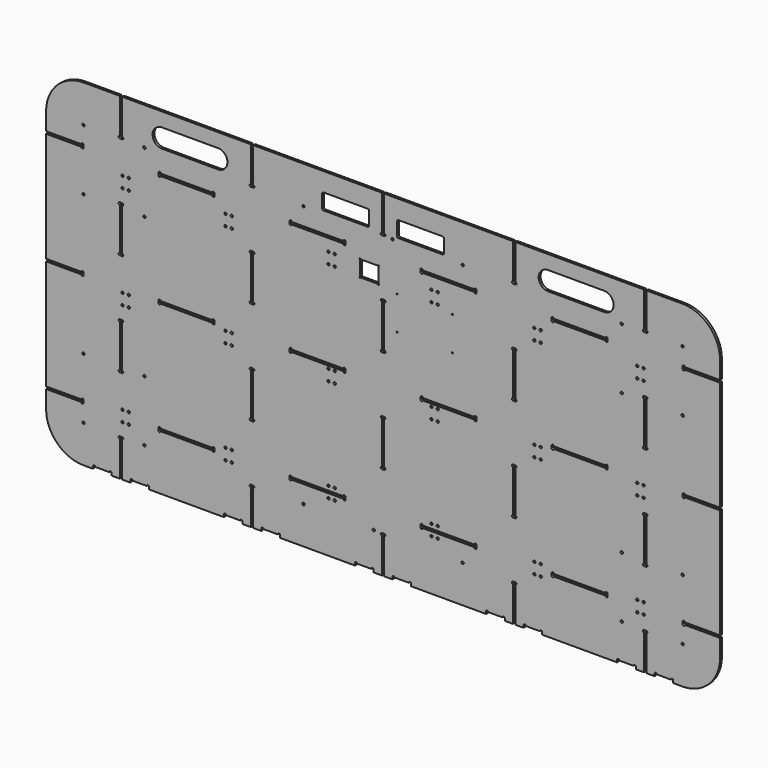
from build123d import *

# Parameters (mm, degrees)
F1_DEPTH  = 6.35
F3_DEPTH  = 6.351
F5_DEPTH  = 6.351
F7_DEPTH  = 6.351
F8_R      = 3.302
F9_DEPTH  = 6.351
F11_DEPTH = 6.351
F13_DEPTH = 6.351
F14_R     = 1.63195
F15_DEPTH = 6.351
F16_R     = 3.175
F17_DEPTH = 6.351
F18_R     = 3.175
F19_DEPTH = 6.351
F21_DEPTH = 6.351


with BuildPart() as f1:
    # F0 (on Front) → F1 (new body)
    with BuildSketch(Plane.XZ):
        with BuildLine():
            ThreePointArc((-914.4, 101.6), (-884.642049, 29.757951), (-812.8, 0))
            Line((-812.8, 0), (812.8, 0))
            ThreePointArc((812.8, 0), (884.642049, 29.757951), (914.4, 101.6))
            Line((914.4, 101.6), (914.4, 812.8))
            ThreePointArc((914.4, 812.8), (884.642049, 884.642049), (812.8, 914.4))
            Line((812.8, 914.4), (-812.8, 914.4))
            ThreePointArc((-812.8, 914.4), (-884.642049, 884.642049), (-914.4, 812.8))
            Line((-914.4, 812.8), (-914.4, 101.6))
        make_face()
    extrude(amount=F1_DEPTH)

    # F2 (on face) → F3 (cut, through all)
    with BuildSketch(Plane.XZ.offset(6.35)):
        with BuildLine():
            ThreePointArc((-714.375, 939.8), (-717.55, 936.625), (-714.375, 933.45))
            Line((-714.375, 933.45), (-714.375, 819.15))
            ThreePointArc((-714.375, 819.15), (-717.55, 815.975), (-714.375, 812.8))
            Line((-714.375, 812.8), (-708.025, 812.8))
            ThreePointArc((-708.025, 812.8), (-704.85, 815.975), (-708.025, 819.15))
            Line((-708.025, 819.15), (-708.025, 933.45))
            ThreePointArc((-708.025, 933.45), (-704.85, 936.625), (-708.025, 939.8))
            Line((-708.025, 939.8), (-714.375, 939.8))
        make_face()
        with BuildLine():
            ThreePointArc((-708.025, 654.05), (-704.85, 657.225), (-708.025, 660.4))
            Line((-708.025, 660.4), (-714.375, 660.4))
            ThreePointArc((-714.375, 660.4), (-717.55, 657.225), (-714.375, 654.05))
            Line((-714.375, 654.05), (-714.375, 539.75))
            ThreePointArc((-714.375, 539.75), (-717.55, 536.575), (-714.375, 533.4))
            Line((-714.375, 533.4), (-708.025, 533.4))
            ThreePointArc((-708.025, 533.4), (-704.85, 536.575), (-708.025, 539.75))
            Line((-708.025, 539.75), (-708.025, 654.05))
        make_face()
        with BuildLine():
            ThreePointArc((-708.025, 374.65), (-704.85, 377.825), (-708.025, 381))
            Line((-708.025, 381), (-714.375, 381))
            ThreePointArc((-714.375, 381), (-717.55, 377.825), (-714.375, 374.65))
            Line((-714.375, 374.65), (-714.375, 260.35))
            ThreePointArc((-714.375, 260.35), (-717.55, 257.175), (-714.375, 254))
            Line((-714.375, 254), (-708.025, 254))
            ThreePointArc((-708.025, 254), (-704.85, 257.175), (-708.025, 260.35))
            Line((-708.025, 260.35), (-708.025, 374.65))
        make_face()
        with BuildLine():
            ThreePointArc((-708.025, 95.25), (-704.85, 98.425), (-708.025, 101.6))
            Line((-708.025, 101.6), (-714.375, 101.6))
            ThreePointArc((-714.375, 101.6), (-717.55, 98.425), (-714.375, 95.25))
            Line((-714.375, 95.25), (-714.375, -19.05))
            ThreePointArc((-714.375, -19.05), (-717.55, -22.225), (-714.375, -25.4))
            Line((-714.375, -25.4), (-708.025, -25.4))
            ThreePointArc((-708.025, -25.4), (-704.85, -22.225), (-708.025, -19.05))
            Line((-708.025, -19.05), (-708.025, 95.25))
        make_face()
        with BuildLine():
            ThreePointArc((-352.425, 933.45), (-349.25, 936.625), (-352.425, 939.8))
            Line((-352.425, 939.8), (-358.775, 939.8))
            ThreePointArc((-358.775, 939.8), (-361.95, 936.625), (-358.775, 933.45))
            Line((-358.775, 933.45), (-358.775, 819.15))
            ThreePointArc((-358.775, 819.15), (-361.95, 815.975), (-358.775, 812.8))
            Line((-358.775, 812.8), (-352.425, 812.8))
            ThreePointArc((-352.425, 812.8), (-349.25, 815.975), (-352.425, 819.15))
            Line((-352.425, 819.15), (-352.425, 933.45))
        make_face()
        with BuildLine():
            ThreePointArc((-352.425, 654.05), (-349.25, 657.225), (-352.425, 660.4))
            Line((-352.425, 660.4), (-358.775, 660.4))
            ThreePointArc((-358.775, 660.4), (-361.95, 657.225), (-358.775, 654.05))
            Line((-358.775, 654.05), (-358.775, 539.75))
            ThreePointArc((-358.775, 539.75), (-361.95, 536.575), (-358.775, 533.4))
            Line((-358.775, 533.4), (-352.425, 533.4))
            ThreePointArc((-352.425, 533.4), (-349.25, 536.575), (-352.425, 539.75))
            Line((-352.425, 539.75), (-352.425, 654.05))
        make_face()
        with BuildLine():
            ThreePointArc((-352.425, 374.65), (-349.25, 377.825), (-352.425, 381))
            Line((-352.425, 381), (-358.775, 381))
            ThreePointArc((-358.775, 381), (-361.95, 377.825), (-358.775, 374.65))
            Line((-358.775, 374.65), (-358.775, 260.35))
            ThreePointArc((-358.775, 260.35), (-361.95, 257.175), (-358.775, 254))
            Line((-358.775, 254), (-352.425, 254))
            ThreePointArc((-352.425, 254), (-349.25, 257.175), (-352.425, 260.35))
            Line((-352.425, 260.35), (-352.425, 374.65))
        make_face()
        with BuildLine():
            ThreePointArc((-352.425, 95.25), (-349.25, 98.425), (-352.425, 101.6))
            Line((-352.425, 101.6), (-358.775, 101.6))
            ThreePointArc((-358.775, 101.6), (-361.95, 98.425), (-358.775, 95.25))
            Line((-358.775, 95.25), (-358.775, -19.05))
            ThreePointArc((-358.775, -19.05), (-361.95, -22.225), (-358.775, -25.4))
            Line((-358.775, -25.4), (-352.425, -25.4))
            ThreePointArc((-352.425, -25.4), (-349.25, -22.225), (-352.425, -19.05))
            Line((-352.425, -19.05), (-352.425, 95.25))
        make_face()
        with BuildLine():
            ThreePointArc((3.175, 933.45), (6.35, 936.625), (3.175, 939.8))
            Line((3.175, 939.8), (-3.175, 939.8))
            ThreePointArc((-3.175, 939.8), (-6.35, 936.625), (-3.175, 933.45))
            Line((-3.175, 933.45), (-3.175, 819.15))
            ThreePointArc((-3.175, 819.15), (-6.35, 815.975), (-3.175, 812.8))
            Line((-3.175, 812.8), (3.175, 812.8))
            ThreePointArc((3.175, 812.8), (6.35, 815.975), (3.175, 819.15))
            Line((3.175, 819.15), (3.175, 933.45))
        make_face()
        with BuildLine():
            ThreePointArc((3.175, 654.05), (6.35, 657.225), (3.175, 660.4))
            Line((3.175, 660.4), (-3.175, 660.4))
            ThreePointArc((-3.175, 660.4), (-6.35, 657.225), (-3.175, 654.05))
            Line((-3.175, 654.05), (-3.175, 539.75))
            ThreePointArc((-3.175, 539.75), (-6.35, 536.575), (-3.175, 533.4))
            Line((-3.175, 533.4), (3.175, 533.4))
            ThreePointArc((3.175, 533.4), (6.35, 536.575), (3.175, 539.75))
            Line((3.175, 539.75), (3.175, 654.05))
        make_face()
        with BuildLine():
            ThreePointArc((3.175, 374.65), (6.35, 377.825), (3.175, 381))
            Line((3.175, 381), (-3.175, 381))
            ThreePointArc((-3.175, 381), (-6.35, 377.825), (-3.175, 374.65))
            Line((-3.175, 374.65), (-3.175, 260.35))
            ThreePointArc((-3.175, 260.35), (-6.35, 257.175), (-3.175, 254))
            Line((-3.175, 254), (3.175, 254))
            ThreePointArc((3.175, 254), (6.35, 257.175), (3.175, 260.35))
            Line((3.175, 260.35), (3.175, 374.65))
        make_face()
        with BuildLine():
            ThreePointArc((3.175, 95.25), (6.35, 98.425), (3.175, 101.6))
            Line((3.175, 101.6), (-3.175, 101.6))
            ThreePointArc((-3.175, 101.6), (-6.35, 98.425), (-3.175, 95.25))
            Line((-3.175, 95.25), (-3.175, -19.05))
            ThreePointArc((-3.175, -19.05), (-6.35, -22.225), (-3.175, -25.4))
            Line((-3.175, -25.4), (3.175, -25.4))
            ThreePointArc((3.175, -25.4), (6.35, -22.225), (3.175, -19.05))
            Line((3.175, -19.05), (3.175, 95.25))
        make_face()
        with BuildLine():
            ThreePointArc((358.775, 933.45), (361.95, 936.625), (358.775, 939.8))
            Line((358.775, 939.8), (352.425, 939.8))
            ThreePointArc((352.425, 939.8), (349.25, 936.625), (352.425, 933.45))
            Line((352.425, 933.45), (352.425, 819.15))
            ThreePointArc((352.425, 819.15), (349.25, 815.975), (352.425, 812.8))
            Line((352.425, 812.8), (358.775, 812.8))
            ThreePointArc((358.775, 812.8), (361.95, 815.975), (358.775, 819.15))
            Line((358.775, 819.15), (358.775, 933.45))
        make_face()
        with BuildLine():
            ThreePointArc((358.775, 654.05), (361.95, 657.225), (358.775, 660.4))
            Line((358.775, 660.4), (352.425, 660.4))
            ThreePointArc((352.425, 660.4), (349.25, 657.225), (352.425, 654.05))
            Line((352.425, 654.05), (352.425, 539.75))
            ThreePointArc((352.425, 539.75), (349.25, 536.575), (352.425, 533.4))
            Line((352.425, 533.4), (358.775, 533.4))
            ThreePointArc((358.775, 533.4), (361.95, 536.575), (358.775, 539.75))
            Line((358.775, 539.75), (358.775, 654.05))
        make_face()
        with BuildLine():
            ThreePointArc((358.775, 374.65), (361.95, 377.825), (358.775, 381))
            Line((358.775, 381), (352.425, 381))
            ThreePointArc((352.425, 381), (349.25, 377.825), (352.425, 374.65))
            Line((352.425, 374.65), (352.425, 260.35))
            ThreePointArc((352.425, 260.35), (349.25, 257.175), (352.425, 254))
            Line((352.425, 254), (358.775, 254))
            ThreePointArc((358.775, 254), (361.95, 257.175), (358.775, 260.35))
            Line((358.775, 260.35), (358.775, 374.65))
        make_face()
        with BuildLine():
            ThreePointArc((358.775, 95.25), (361.95, 98.425), (358.775, 101.6))
            Line((358.775, 101.6), (352.425, 101.6))
            ThreePointArc((352.425, 101.6), (349.25, 98.425), (352.425, 95.25))
            Line((352.425, 95.25), (352.425, -19.05))
            ThreePointArc((352.425, -19.05), (349.25, -22.225), (352.425, -25.4))
            Line((352.425, -25.4), (358.775, -25.4))
            ThreePointArc((358.775, -25.4), (361.95, -22.225), (358.775, -19.05))
            Line((358.775, -19.05), (358.775, 95.25))
        make_face()
        with BuildLine():
            ThreePointArc((714.375, 933.45), (717.55, 936.625), (714.375, 939.8))
            Line((714.375, 939.8), (708.025, 939.8))
            ThreePointArc((708.025, 939.8), (704.85, 936.625), (708.025, 933.45))
            Line((708.025, 933.45), (708.025, 819.15))
            ThreePointArc((708.025, 819.15), (704.85, 815.975), (708.025, 812.8))
            Line((708.025, 812.8), (714.375, 812.8))
            ThreePointArc((714.375, 812.8), (717.55, 815.975), (714.375, 819.15))
            Line((714.375, 819.15), (714.375, 933.45))
        make_face()
        with BuildLine():
            ThreePointArc((714.375, 654.05), (717.55, 657.225), (714.375, 660.4))
            Line((714.375, 660.4), (708.025, 660.4))
            ThreePointArc((708.025, 660.4), (704.85, 657.225), (708.025, 654.05))
            Line((708.025, 654.05), (708.025, 539.75))
            ThreePointArc((708.025, 539.75), (704.85, 536.575), (708.025, 533.4))
            Line((708.025, 533.4), (714.375, 533.4))
            ThreePointArc((714.375, 533.4), (717.55, 536.575), (714.375, 539.75))
            Line((714.375, 539.75), (714.375, 654.05))
        make_face()
        with BuildLine():
            ThreePointArc((714.375, 374.65), (717.55, 377.825), (714.375, 381))
            Line((714.375, 381), (708.025, 381))
            ThreePointArc((708.025, 381), (704.85, 377.825), (708.025, 374.65))
            Line((708.025, 374.65), (708.025, 260.35))
            ThreePointArc((708.025, 260.35), (704.85, 257.175), (708.025, 254))
            Line((708.025, 254), (714.375, 254))
            ThreePointArc((714.375, 254), (717.55, 257.175), (714.375, 260.35))
            Line((714.375, 260.35), (714.375, 374.65))
        make_face()
        with BuildLine():
            ThreePointArc((714.375, 95.25), (717.55, 98.425), (714.375, 101.6))
            Line((714.375, 101.6), (708.025, 101.6))
            ThreePointArc((708.025, 101.6), (704.85, 98.425), (708.025, 95.25))
            Line((708.025, 95.25), (708.025, -19.05))
            ThreePointArc((708.025, -19.05), (704.85, -22.225), (708.025, -25.4))
            Line((708.025, -25.4), (714.375, -25.4))
            ThreePointArc((714.375, -25.4), (717.55, -22.225), (714.375, -19.05))
            Line((714.375, -19.05), (714.375, 95.25))
        make_face()
    extrude(amount=-F3_DEPTH, mode=Mode.SUBTRACT)

    # F4 (on face) → F5 (cut, through all)
    with BuildSketch(Plane.XZ.offset(6.35)):
        with BuildLine():
            Line((-819.15, 765.175), (-958.85, 765.175))
            ThreePointArc((-958.85, 765.175), (-962.025, 768.35), (-965.2, 765.175))
            Line((-965.2, 765.175), (-965.2, 758.825))
            ThreePointArc((-965.2, 758.825), (-962.025, 755.65), (-958.85, 758.825))
            Line((-958.85, 758.825), (-819.15, 758.825))
            ThreePointArc((-819.15, 758.825), (-815.975, 755.65), (-812.8, 758.825))
            Line((-812.8, 758.825), (-812.8, 765.175))
            ThreePointArc((-812.8, 765.175), (-815.975, 768.35), (-819.15, 765.175))
        make_face()
        with BuildLine():
            Line((-819.15, 460.375), (-958.85, 460.375))
            ThreePointArc((-958.85, 460.375), (-962.025, 463.55), (-965.2, 460.375))
            Line((-965.2, 460.375), (-965.2, 454.025))
            ThreePointArc((-965.2, 454.025), (-962.025, 450.85), (-958.85, 454.025))
            Line((-958.85, 454.025), (-819.15, 454.025))
            ThreePointArc((-819.15, 454.025), (-815.975, 450.85), (-812.8, 454.025))
            Line((-812.8, 454.025), (-812.8, 460.375))
            ThreePointArc((-812.8, 460.375), (-815.975, 463.55), (-819.15, 460.375))
        make_face()
        with BuildLine():
            Line((-819.15, 155.575), (-958.85, 155.575))
            ThreePointArc((-958.85, 155.575), (-962.025, 158.75), (-965.2, 155.575))
            Line((-965.2, 155.575), (-965.2, 149.225))
            ThreePointArc((-965.2, 149.225), (-962.025, 146.05), (-958.85, 149.225))
            Line((-958.85, 149.225), (-819.15, 149.225))
            ThreePointArc((-819.15, 149.225), (-815.975, 146.05), (-812.8, 149.225))
            Line((-812.8, 149.225), (-812.8, 155.575))
            ThreePointArc((-812.8, 155.575), (-815.975, 158.75), (-819.15, 155.575))
        make_face()
        with BuildLine():
            Line((-463.55, 765.175), (-603.25, 765.175))
            ThreePointArc((-603.25, 765.175), (-606.425, 768.35), (-609.6, 765.175))
            Line((-609.6, 765.175), (-609.6, 758.825))
            ThreePointArc((-609.6, 758.825), (-606.425, 755.65), (-603.25, 758.825))
            Line((-603.25, 758.825), (-463.55, 758.825))
            ThreePointArc((-463.55, 758.825), (-460.375, 755.65), (-457.2, 758.825))
            Line((-457.2, 758.825), (-457.2, 765.175))
            ThreePointArc((-457.2, 765.175), (-460.375, 768.35), (-463.55, 765.175))
        make_face()
        with BuildLine():
            Line((-463.55, 460.375), (-603.25, 460.375))
            ThreePointArc((-603.25, 460.375), (-606.425, 463.55), (-609.6, 460.375))
            Line((-609.6, 460.375), (-609.6, 454.025))
            ThreePointArc((-609.6, 454.025), (-606.425, 450.85), (-603.25, 454.025))
            Line((-603.25, 454.025), (-463.55, 454.025))
            ThreePointArc((-463.55, 454.025), (-460.375, 450.85), (-457.2, 454.025))
            Line((-457.2, 454.025), (-457.2, 460.375))
            ThreePointArc((-457.2, 460.375), (-460.375, 463.55), (-463.55, 460.375))
        make_face()
        with BuildLine():
            Line((-463.55, 155.575), (-603.25, 155.575))
            ThreePointArc((-603.25, 155.575), (-606.425, 158.75), (-609.6, 155.575))
            Line((-609.6, 155.575), (-609.6, 149.225))
            ThreePointArc((-609.6, 149.225), (-606.425, 146.05), (-603.25, 149.225))
            Line((-603.25, 149.225), (-463.55, 149.225))
            ThreePointArc((-463.55, 149.225), (-460.375, 146.05), (-457.2, 149.225))
            Line((-457.2, 149.225), (-457.2, 155.575))
            ThreePointArc((-457.2, 155.575), (-460.375, 158.75), (-463.55, 155.575))
        make_face()
        with BuildLine():
            Line((-107.95, 765.175), (-247.65, 765.175))
            ThreePointArc((-247.65, 765.175), (-250.825, 768.35), (-254, 765.175))
            Line((-254, 765.175), (-254, 758.825))
            ThreePointArc((-254, 758.825), (-250.825, 755.65), (-247.65, 758.825))
            Line((-247.65, 758.825), (-107.95, 758.825))
            ThreePointArc((-107.95, 758.825), (-104.775, 755.65), (-101.6, 758.825))
            Line((-101.6, 758.825), (-101.6, 765.175))
            ThreePointArc((-101.6, 765.175), (-104.775, 768.35), (-107.95, 765.175))
        make_face()
        with BuildLine():
            Line((-107.95, 460.375), (-247.65, 460.375))
            ThreePointArc((-247.65, 460.375), (-250.825, 463.55), (-254, 460.375))
            Line((-254, 460.375), (-254, 454.025))
            ThreePointArc((-254, 454.025), (-250.825, 450.85), (-247.65, 454.025))
            Line((-247.65, 454.025), (-107.95, 454.025))
            ThreePointArc((-107.95, 454.025), (-104.775, 450.85), (-101.6, 454.025))
            Line((-101.6, 454.025), (-101.6, 460.375))
            ThreePointArc((-101.6, 460.375), (-104.775, 463.55), (-107.95, 460.375))
        make_face()
        with BuildLine():
            Line((-107.95, 155.575), (-247.65, 155.575))
            ThreePointArc((-247.65, 155.575), (-250.825, 158.75), (-254, 155.575))
            Line((-254, 155.575), (-254, 149.225))
            ThreePointArc((-254, 149.225), (-250.825, 146.05), (-247.65, 149.225))
            Line((-247.65, 149.225), (-107.95, 149.225))
            ThreePointArc((-107.95, 149.225), (-104.775, 146.05), (-101.6, 149.225))
            Line((-101.6, 149.225), (-101.6, 155.575))
            ThreePointArc((-101.6, 155.575), (-104.775, 158.75), (-107.95, 155.575))
        make_face()
        with BuildLine():
            Line((247.65, 765.175), (107.95, 765.175))
            ThreePointArc((107.95, 765.175), (104.775, 768.35), (101.6, 765.175))
            Line((101.6, 765.175), (101.6, 758.825))
            ThreePointArc((101.6, 758.825), (104.775, 755.65), (107.95, 758.825))
            Line((107.95, 758.825), (247.65, 758.825))
            ThreePointArc((247.65, 758.825), (250.825, 755.65), (254, 758.825))
            Line((254, 758.825), (254, 765.175))
            ThreePointArc((254, 765.175), (250.825, 768.35), (247.65, 765.175))
        make_face()
        with BuildLine():
            Line((247.65, 460.375), (107.95, 460.375))
            ThreePointArc((107.95, 460.375), (104.775, 463.55), (101.6, 460.375))
            Line((101.6, 460.375), (101.6, 454.025))
            ThreePointArc((101.6, 454.025), (104.775, 450.85), (107.95, 454.025))
            Line((107.95, 454.025), (247.65, 454.025))
            ThreePointArc((247.65, 454.025), (250.825, 450.85), (254, 454.025))
            Line((254, 454.025), (254, 460.375))
            ThreePointArc((254, 460.375), (250.825, 463.55), (247.65, 460.375))
        make_face()
        with BuildLine():
            Line((247.65, 155.575), (107.95, 155.575))
            ThreePointArc((107.95, 155.575), (104.775, 158.75), (101.6, 155.575))
            Line((101.6, 155.575), (101.6, 149.225))
            ThreePointArc((101.6, 149.225), (104.775, 146.05), (107.95, 149.225))
            Line((107.95, 149.225), (247.65, 149.225))
            ThreePointArc((247.65, 149.225), (250.825, 146.05), (254, 149.225))
            Line((254, 149.225), (254, 155.575))
            ThreePointArc((254, 155.575), (250.825, 158.75), (247.65, 155.575))
        make_face()
        with BuildLine():
            Line((603.25, 765.175), (463.55, 765.175))
            ThreePointArc((463.55, 765.175), (460.375, 768.35), (457.2, 765.175))
            Line((457.2, 765.175), (457.2, 758.825))
            ThreePointArc((457.2, 758.825), (460.375, 755.65), (463.55, 758.825))
            Line((463.55, 758.825), (603.25, 758.825))
            ThreePointArc((603.25, 758.825), (606.425, 755.65), (609.6, 758.825))
            Line((609.6, 758.825), (609.6, 765.175))
            ThreePointArc((609.6, 765.175), (606.425, 768.35), (603.25, 765.175))
        make_face()
        with BuildLine():
            Line((603.25, 460.375), (463.55, 460.375))
            ThreePointArc((463.55, 460.375), (460.375, 463.55), (457.2, 460.375))
            Line((457.2, 460.375), (457.2, 454.025))
            ThreePointArc((457.2, 454.025), (460.375, 450.85), (463.55, 454.025))
            Line((463.55, 454.025), (603.25, 454.025))
            ThreePointArc((603.25, 454.025), (606.425, 450.85), (609.6, 454.025))
            Line((609.6, 454.025), (609.6, 460.375))
            ThreePointArc((609.6, 460.375), (606.425, 463.55), (603.25, 460.375))
        make_face()
        with BuildLine():
            Line((603.25, 155.575), (463.55, 155.575))
            ThreePointArc((463.55, 155.575), (460.375, 158.75), (457.2, 155.575))
            Line((457.2, 155.575), (457.2, 149.225))
            ThreePointArc((457.2, 149.225), (460.375, 146.05), (463.55, 149.225))
            Line((463.55, 149.225), (603.25, 149.225))
            ThreePointArc((603.25, 149.225), (606.425, 146.05), (609.6, 149.225))
            Line((609.6, 149.225), (609.6, 155.575))
            ThreePointArc((609.6, 155.575), (606.425, 158.75), (603.25, 155.575))
        make_face()
        with BuildLine():
            Line((958.85, 765.175), (819.15, 765.175))
            ThreePointArc((819.15, 765.175), (815.975, 768.35), (812.8, 765.175))
            Line((812.8, 765.175), (812.8, 758.825))
            ThreePointArc((812.8, 758.825), (815.975, 755.65), (819.15, 758.825))
            Line((819.15, 758.825), (958.85, 758.825))
            ThreePointArc((958.85, 758.825), (962.025, 755.65), (965.2, 758.825))
            Line((965.2, 758.825), (965.2, 765.175))
            ThreePointArc((965.2, 765.175), (962.025, 768.35), (958.85, 765.175))
        make_face()
        with BuildLine():
            Line((958.85, 460.375), (819.15, 460.375))
            ThreePointArc((819.15, 460.375), (815.975, 463.55), (812.8, 460.375))
            Line((812.8, 460.375), (812.8, 454.025))
            ThreePointArc((812.8, 454.025), (815.975, 450.85), (819.15, 454.025))
            Line((819.15, 454.025), (958.85, 454.025))
            ThreePointArc((958.85, 454.025), (962.025, 450.85), (965.2, 454.025))
            Line((965.2, 454.025), (965.2, 460.375))
            ThreePointArc((965.2, 460.375), (962.025, 463.55), (958.85, 460.375))
        make_face()
        with BuildLine():
            Line((958.85, 155.575), (819.15, 155.575))
            ThreePointArc((819.15, 155.575), (815.975, 158.75), (812.8, 155.575))
            Line((812.8, 155.575), (812.8, 149.225))
            ThreePointArc((812.8, 149.225), (815.975, 146.05), (819.15, 149.225))
            Line((819.15, 149.225), (958.85, 149.225))
            ThreePointArc((958.85, 149.225), (962.025, 146.05), (965.2, 149.225))
            Line((965.2, 149.225), (965.2, 155.575))
            ThreePointArc((965.2, 155.575), (962.025, 158.75), (958.85, 155.575))
        make_face()
    extrude(amount=-F5_DEPTH, mode=Mode.SUBTRACT)

    # F6 (on face) → F7 (cut, through all)
    with BuildSketch(Plane.XZ.offset(6.35)):
        with BuildLine():
            Line((-787.4, 6.35), (-787.4, 0))
            Line((-787.4, 0), (-736.6, 0))
            Line((-736.6, 0), (-736.6, 6.35))
            ThreePointArc((-736.6, 6.35), (-739.775, 9.525), (-742.95, 6.35))
            Line((-742.95, 6.35), (-781.05, 6.35))
            ThreePointArc((-781.05, 6.35), (-784.225, 9.525), (-787.4, 6.35))
        make_face()
        with BuildLine():
            Line((-685.8, 6.35), (-685.8, 0))
            Line((-685.8, 0), (-635, 0))
            Line((-635, 0), (-635, 6.35))
            ThreePointArc((-635, 6.35), (-638.175, 9.525), (-641.35, 6.35))
            Line((-641.35, 6.35), (-679.45, 6.35))
            ThreePointArc((-679.45, 6.35), (-682.625, 9.525), (-685.8, 6.35))
        make_face()
        with BuildLine():
            Line((-431.8, 6.35), (-431.8, 0))
            Line((-431.8, 0), (-381, 0))
            Line((-381, 0), (-381, 6.35))
            ThreePointArc((-381, 6.35), (-384.175, 9.525), (-387.35, 6.35))
            Line((-387.35, 6.35), (-425.45, 6.35))
            ThreePointArc((-425.45, 6.35), (-428.625, 9.525), (-431.8, 6.35))
        make_face()
        with BuildLine():
            ThreePointArc((-323.85, 6.35), (-327.025, 9.525), (-330.2, 6.35))
            Line((-330.2, 6.35), (-330.2, 0))
            Line((-330.2, 0), (-279.4, 0))
            Line((-279.4, 0), (-279.4, 6.35))
            ThreePointArc((-279.4, 6.35), (-282.575, 9.525), (-285.75, 6.35))
            Line((-285.75, 6.35), (-323.85, 6.35))
        make_face()
        with BuildLine():
            Line((-76.2, 6.35), (-76.2, 0))
            Line((-76.2, 0), (-25.4, 0))
            Line((-25.4, 0), (-25.4, 6.35))
            ThreePointArc((-25.4, 6.35), (-28.575, 9.525), (-31.75, 6.35))
            Line((-31.75, 6.35), (-69.85, 6.35))
            ThreePointArc((-69.85, 6.35), (-73.025, 9.525), (-76.2, 6.35))
        make_face()
        with BuildLine():
            ThreePointArc((31.75, 6.35), (28.575, 9.525), (25.4, 6.35))
            Line((25.4, 6.35), (25.4, 0))
            Line((25.4, 0), (76.2, 0))
            Line((76.2, 0), (76.2, 6.35))
            ThreePointArc((76.2, 6.35), (73.025, 9.525), (69.85, 6.35))
            Line((69.85, 6.35), (31.75, 6.35))
        make_face()
        with BuildLine():
            Line((279.4, 6.35), (279.4, 0))
            Line((279.4, 0), (330.2, 0))
            Line((330.2, 0), (330.2, 6.35))
            ThreePointArc((330.2, 6.35), (327.025, 9.525), (323.85, 6.35))
            Line((323.85, 6.35), (285.75, 6.35))
            ThreePointArc((285.75, 6.35), (282.575, 9.525), (279.4, 6.35))
        make_face()
        with BuildLine():
            ThreePointArc((387.35, 6.35), (384.175, 9.525), (381, 6.35))
            Line((381, 6.35), (381, 0))
            Line((381, 0), (431.8, 0))
            Line((431.8, 0), (431.8, 6.35))
            ThreePointArc((431.8, 6.35), (428.625, 9.525), (425.45, 6.35))
            Line((425.45, 6.35), (387.35, 6.35))
        make_face()
        with BuildLine():
            Line((635, 6.35), (635, 0))
            Line((635, 0), (685.8, 0))
            Line((685.8, 0), (685.8, 6.35))
            ThreePointArc((685.8, 6.35), (682.625, 9.525), (679.45, 6.35))
            Line((679.45, 6.35), (641.35, 6.35))
            ThreePointArc((641.35, 6.35), (638.175, 9.525), (635, 6.35))
        make_face()
        with BuildLine():
            ThreePointArc((742.95, 6.35), (739.775, 9.525), (736.6, 6.35))
            Line((736.6, 6.35), (736.6, 0))
            Line((736.6, 0), (787.4, 0))
            Line((787.4, 0), (787.4, 6.35))
            ThreePointArc((787.4, 6.35), (784.225, 9.525), (781.05, 6.35))
            Line((781.05, 6.35), (742.95, 6.35))
        make_face()
    extrude(amount=-F7_DEPTH, mode=Mode.SUBTRACT)

    # F8 (on face) → F9 (cut, through all)
    with BuildSketch(Plane.XZ.offset(6.35)):
        with Locations((-647.7, 812.8)):
            Circle(F8_R)
        with Locations((-812.8, 647.7)):
            Circle(F8_R)
        with Locations((-812.8, 266.7)):
            Circle(F8_R)
        with Locations((-647.7, 101.6)):
            Circle(F8_R)
        with Locations((647.7, 101.6)):
            Circle(F8_R)
        with Locations((812.8, 266.7)):
            Circle(F8_R)
        with Locations((812.8, 647.7)):
            Circle(F8_R)
        with Locations((647.7, 812.8)):
            Circle(F8_R)
        with Locations((-215.9, 812.8)):
            Circle(F8_R)
        with Locations((215.9, 812.8)):
            Circle(F8_R)
        with Locations((-215.9, 101.6)):
            Circle(F8_R)
        with Locations((215.9, 101.6)):
            Circle(F8_R)
    extrude(amount=-F9_DEPTH, mode=Mode.SUBTRACT)

    # F10 (on face) → F11 (cut, through all)
    with BuildSketch(Plane.XZ.offset(6.35)):
        with BuildLine():
            Line((-41.275, 863.6), (-161.925, 863.6))
            ThreePointArc((-161.925, 863.6), (-164.170064, 862.670064), (-165.1, 860.425))
            Line((-165.1, 860.425), (-165.1, 823.595))
            ThreePointArc((-165.1, 823.595), (-164.170064, 821.349936), (-161.925, 820.42))
            Line((-161.925, 820.42), (-41.275, 820.42))
            ThreePointArc((-41.275, 820.42), (-39.029936, 821.349936), (-38.1, 823.595))
            Line((-38.1, 823.595), (-38.1, 860.425))
            ThreePointArc((-38.1, 860.425), (-39.029936, 862.670064), (-41.275, 863.6))
        make_face()
        with BuildLine():
            ThreePointArc((38.1, 823.595), (39.029936, 821.349936), (41.275, 820.42))
            Line((41.275, 820.42), (161.925, 820.42))
            ThreePointArc((161.925, 820.42), (164.170064, 821.349936), (165.1, 823.595))
            Line((165.1, 823.595), (165.1, 860.425))
            ThreePointArc((165.1, 860.425), (164.170064, 862.670064), (161.925, 863.6))
            Line((161.925, 863.6), (41.275, 863.6))
            ThreePointArc((41.275, 863.6), (39.029936, 862.670064), (38.1, 860.425))
            Line((38.1, 860.425), (38.1, 823.595))
        make_face()
    extrude(amount=-F11_DEPTH, mode=Mode.SUBTRACT)

    # F12 (on face) → F13 (cut, through all)
    with BuildSketch(Plane.XZ.offset(6.35)):
        with BuildLine():
            Line((-447.675, 876.3), (-600.075, 876.3))
            ThreePointArc((-600.075, 876.3), (-625.475, 850.9), (-600.075, 825.5))
            Line((-600.075, 825.5), (-447.675, 825.5))
            ThreePointArc((-447.675, 825.5), (-422.275, 850.9), (-447.675, 876.3))
        make_face()
        with BuildLine():
            Line((447.675, 825.5), (600.075, 825.5))
            ThreePointArc((600.075, 825.5), (625.475, 850.9), (600.075, 876.3))
            Line((600.075, 876.3), (447.675, 876.3))
            ThreePointArc((447.675, 876.3), (422.275, 850.9), (447.675, 825.5))
        make_face()
    extrude(amount=-F13_DEPTH, mode=Mode.SUBTRACT)

    # F14 (on face) → F15 (cut, through all)
    with BuildSketch(Plane.XZ.offset(6.35)):
        with Locations((38.1, 685.8)):
            Circle(F14_R)
        with Locations((187.96, 685.8)):
            Circle(F14_R)
        with Locations((187.96, 594.36)):
            Circle(F14_R)
        with Locations((38.1, 594.36)):
            Circle(F14_R)
    extrude(amount=-F15_DEPTH, mode=Mode.SUBTRACT)

    # F16 (on face) → F17 (cut, through all)
    with BuildSketch(Plane.XZ.offset(6.35)):
        with Locations((-707.1106, 167.313997)):
            Circle(F16_R)
        with Locations((-689.8894, 167.313997)):
            Circle(F16_R)
        with Locations((-707.1106, 137.486003)):
            Circle(F16_R)
        with Locations((-689.8894, 137.486003)):
            Circle(F16_R)
        with Locations((-707.1106, 446.713997)):
            Circle(F16_R)
        with Locations((-707.1106, 416.886003)):
            Circle(F16_R)
        with Locations((-689.8894, 416.886003)):
            Circle(F16_R)
        with Locations((-689.8894, 446.713997)):
            Circle(F16_R)
        with Locations((-707.1106, 726.113997)):
            Circle(F16_R)
        with Locations((-707.1106, 696.286003)):
            Circle(F16_R)
        with Locations((-689.8894, 696.286003)):
            Circle(F16_R)
        with Locations((-689.8894, 726.113997)):
            Circle(F16_R)
        with Locations((-427.7106, 167.313997)):
            Circle(F16_R)
        with Locations((-427.7106, 137.486003)):
            Circle(F16_R)
        with Locations((-410.4894, 137.486003)):
            Circle(F16_R)
        with Locations((-410.4894, 167.313997)):
            Circle(F16_R)
        with Locations((-427.7106, 446.713997)):
            Circle(F16_R)
        with Locations((-427.7106, 416.886003)):
            Circle(F16_R)
        with Locations((-410.4894, 416.886003)):
            Circle(F16_R)
        with Locations((-410.4894, 446.713997)):
            Circle(F16_R)
        with Locations((-427.7106, 726.113997)):
            Circle(F16_R)
        with Locations((-427.7106, 696.286003)):
            Circle(F16_R)
        with Locations((-410.4894, 696.286003)):
            Circle(F16_R)
        with Locations((-410.4894, 726.113997)):
            Circle(F16_R)
        with Locations((-148.3106, 167.313997)):
            Circle(F16_R)
        with Locations((-148.3106, 137.486003)):
            Circle(F16_R)
        with Locations((-131.0894, 137.486003)):
            Circle(F16_R)
        with Locations((-131.0894, 167.313997)):
            Circle(F16_R)
        with Locations((-148.3106, 446.713997)):
            Circle(F16_R)
        with Locations((-148.3106, 416.886003)):
            Circle(F16_R)
        with Locations((-131.0894, 416.886003)):
            Circle(F16_R)
        with Locations((-131.0894, 446.713997)):
            Circle(F16_R)
        with Locations((-148.3106, 726.113997)):
            Circle(F16_R)
        with Locations((-148.3106, 696.286003)):
            Circle(F16_R)
        with Locations((-131.0894, 696.286003)):
            Circle(F16_R)
        with Locations((-131.0894, 726.113997)):
            Circle(F16_R)
        with Locations((131.0894, 167.313997)):
            Circle(F16_R)
        with Locations((131.0894, 137.486003)):
            Circle(F16_R)
        with Locations((148.3106, 137.486003)):
            Circle(F16_R)
        with Locations((148.3106, 167.313997)):
            Circle(F16_R)
        with Locations((131.0894, 446.713997)):
            Circle(F16_R)
        with Locations((131.0894, 416.886003)):
            Circle(F16_R)
        with Locations((148.3106, 416.886003)):
            Circle(F16_R)
        with Locations((148.3106, 446.713997)):
            Circle(F16_R)
        with Locations((131.0894, 726.113997)):
            Circle(F16_R)
        with Locations((131.0894, 696.286003)):
            Circle(F16_R)
        with Locations((148.3106, 696.286003)):
            Circle(F16_R)
        with Locations((148.3106, 726.113997)):
            Circle(F16_R)
        with Locations((410.4894, 167.313997)):
            Circle(F16_R)
        with Locations((410.4894, 137.486003)):
            Circle(F16_R)
        with Locations((427.7106, 137.486003)):
            Circle(F16_R)
        with Locations((427.7106, 167.313997)):
            Circle(F16_R)
        with Locations((410.4894, 446.713997)):
            Circle(F16_R)
        with Locations((410.4894, 416.886003)):
            Circle(F16_R)
        with Locations((427.7106, 416.886003)):
            Circle(F16_R)
        with Locations((427.7106, 446.713997)):
            Circle(F16_R)
        with Locations((410.4894, 726.113997)):
            Circle(F16_R)
        with Locations((410.4894, 696.286003)):
            Circle(F16_R)
        with Locations((427.7106, 696.286003)):
            Circle(F16_R)
        with Locations((427.7106, 726.113997)):
            Circle(F16_R)
        with Locations((689.8894, 167.313997)):
            Circle(F16_R)
        with Locations((689.8894, 137.486003)):
            Circle(F16_R)
        with Locations((707.1106, 137.486003)):
            Circle(F16_R)
        with Locations((707.1106, 167.313997)):
            Circle(F16_R)
        with Locations((689.8894, 446.713997)):
            Circle(F16_R)
        with Locations((689.8894, 416.886003)):
            Circle(F16_R)
        with Locations((707.1106, 416.886003)):
            Circle(F16_R)
        with Locations((707.1106, 446.713997)):
            Circle(F16_R)
        with Locations((689.8894, 726.113997)):
            Circle(F16_R)
        with Locations((689.8894, 696.286003)):
            Circle(F16_R)
        with Locations((707.1106, 696.286003)):
            Circle(F16_R)
        with Locations((707.1106, 726.113997)):
            Circle(F16_R)
    extrude(amount=-F17_DEPTH, mode=Mode.SUBTRACT)

    # F18 (on face) → F19 (cut, through all)
    with BuildSketch(Plane.XZ.offset(6.35)):
        with Locations((812.8, 812.8)):
            Circle(F18_R)
        with Locations((647.7, 647.7)):
            Circle(F18_R)
        with Locations((647.7, 266.7)):
            Circle(F18_R)
        with Locations((812.8, 101.6)):
            Circle(F18_R)
        with Locations((-812.8, 101.6)):
            Circle(F18_R)
        with Locations((-647.7, 266.7)):
            Circle(F18_R)
        with Locations((-812.8, 812.8)):
            Circle(F18_R)
        with Locations((-647.7, 647.7)):
            Circle(F18_R)
        with Locations((25.4, 812.8)):
            Circle(F18_R)
        with Locations((-25.4, 101.6)):
            Circle(F18_R)
    extrude(amount=-F19_DEPTH, mode=Mode.SUBTRACT)

    # F20 (on face) → F21 (cut, through all)
    with BuildSketch(Plane.XZ.offset(6.35)):
        with BuildLine():
            Line((-14.605, 736.6), (-60.795, 736.6))
            ThreePointArc((-60.795, 736.6), (-64.047038, 737.947038), (-62.7, 734.695))
            Line((-62.7, 734.695), (-62.7, 695.005))
            ThreePointArc((-62.7, 695.005), (-64.047038, 691.752962), (-60.795, 693.1))
            Line((-60.795, 693.1), (-14.605, 693.1))
            ThreePointArc((-14.605, 693.1), (-11.352962, 691.752962), (-12.7, 695.005))
            Line((-12.7, 695.005), (-12.7, 734.695))
            ThreePointArc((-12.7, 734.695), (-11.352962, 737.947038), (-14.605, 736.6))
        make_face()
    extrude(amount=-F21_DEPTH, mode=Mode.SUBTRACT)


solid = f1.part
